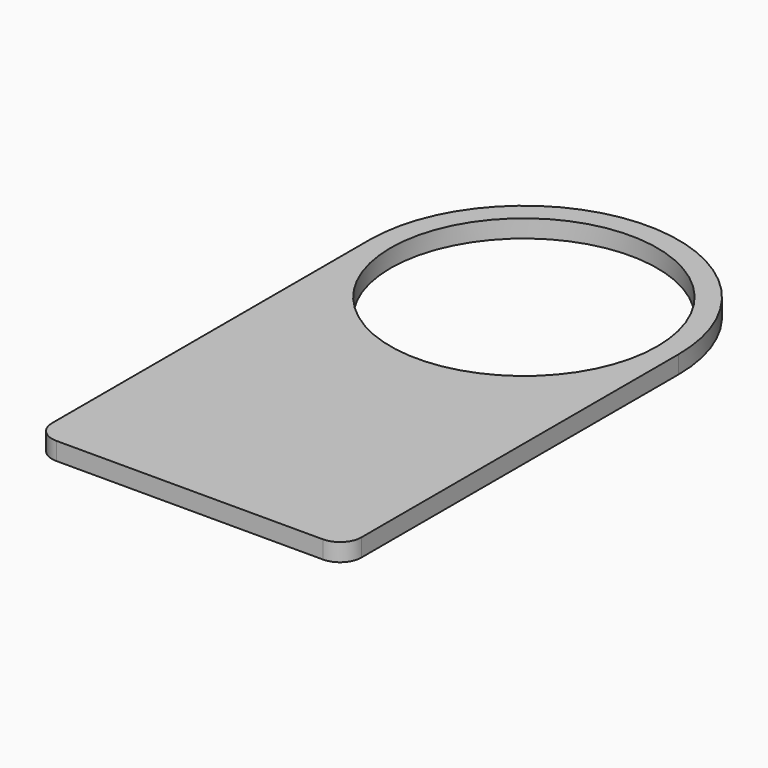
from build123d import *

# Parameters (mm, degrees)
SKETCH_R  = 18.75
PAD_DEPTH = 2.5
FILLET_R  = 3


with BuildPart() as part:
    # Sketch → Pad (new body)
    with BuildSketch(Plane.XY):
        with BuildLine():
            Line((21.75, 0), (21.75, -58.75))
            Line((21.75, -58.75), (-21.75, -58.75))
            Line((-21.75, -58.75), (-21.75, 0))
            ThreePointArc((21.75, 0), (0, 21.75), (-21.75, 0))
        make_face()
        Circle(SKETCH_R, mode=Mode.SUBTRACT)
    extrude(amount=PAD_DEPTH)

    # Fillet
    fillet_edges = [part.edges().sort_by_distance(p)[0] for p in [
        (-21.75, -58.75, 1.25),
        (21.75, -58.75, 1.25),
    ]]
    fillet(fillet_edges, radius=FILLET_R)


solid = part.part
